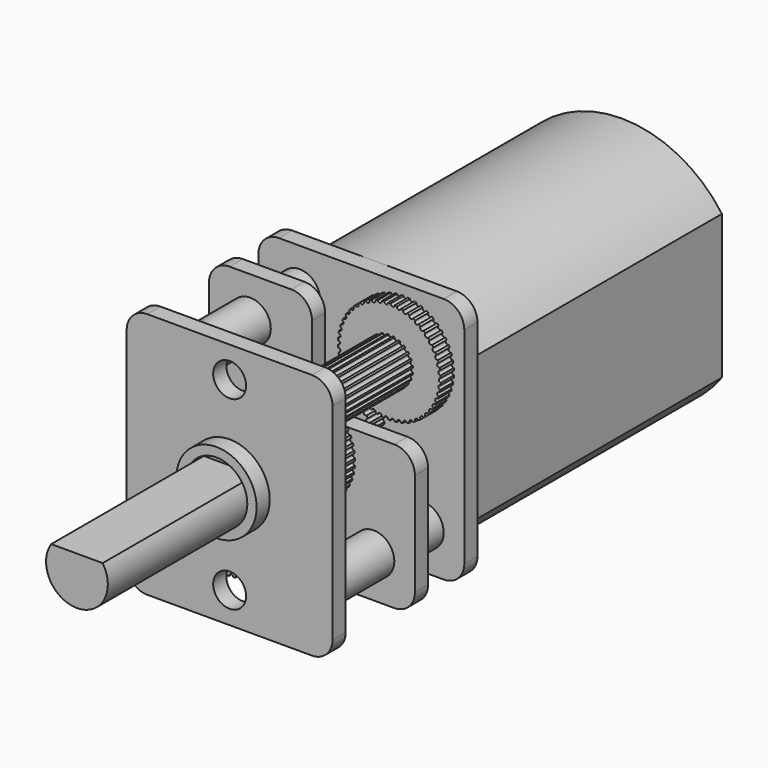
from build123d import *

# Parameters (mm, degrees)
CYLINDER030_R               = 0.5
CYLINDER030_DEPTH           = 10
CYLINDER029_R               = 0.1
CYLINDER029_DEPTH           = 3
ARRAY006_COUNT              = 50
CYLINDER028_R               = 2.5
CYLINDER028_DEPTH           = 0.8
CUT014_ROLL_ANGLE           = 90
CYLINDER033_R               = 0.5
CYLINDER033_DEPTH           = 10
CYLINDER032_R               = 0.1
CYLINDER032_DEPTH           = 2
ARRAY007_COUNT              = 26
CYLINDER031_R               = 1.15
CYLINDER031_DEPTH           = 1
CUT016_ROLL_ANGLE           = 90
CUT016_PITCH_ANGLE          = 78
CYLINDER027_R               = 0.5
CYLINDER027_DEPTH           = 8.8
CYLINDER027_ROLL_ANGLE      = 90
BOX003_W                    = 5
BOX003_H                    = 0.8
BOX003_DEPTH                = 5
FILLET003_R                 = 1
CYLINDER002_R               = 0.5
CYLINDER002_DEPTH           = 11
CYLINDER002_ROLL_ANGLE      = 90
BOX002_W                    = 10
BOX002_H                    = 0.8
BOX002_DEPTH                = 12
FILLET002_R                 = 1
BOX_W                       = 10
BOX_H                       = 0.8
BOX_DEPTH                   = 12
FILLET_R                    = 1
SKETCH_R                    = 0.8
POCKET_DEPTH                = 0.801
SKETCH001_R                 = 1.95
PAD_DEPTH                   = 0.8
SKETCH002_R                 = 1.5
POCKET003_DEPTH             = 5
CYLINDER005_R               = 1
CYLINDER005_DEPTH           = 8.8
CYLINDER005_ROLL_ANGLE      = 90
CYLINDER007_R               = 1
CYLINDER007_DEPTH           = 8.8
CYLINDER007_ROLL_ANGLE      = 90
BOX001_W                    = 10
BOX001_H                    = 0.8
BOX001_DEPTH                = 12
FILLET001_R                 = 1
FILLET004_R                 = 1
CYLINDER013_R               = 0.5
CYLINDER013_DEPTH           = 8.8
CYLINDER013_ROLL_ANGLE      = 90
CYLINDER012_R               = 0.1
CYLINDER012_DEPTH           = 10
ARRAY001_COUNT              = 25
CYLINDER011_R               = 0.5
CYLINDER011_DEPTH           = 10
CYLINDER010_R               = 1.15
CYLINDER010_DEPTH           = 5
CYLINDER009_R               = 0.1
CYLINDER009_DEPTH           = 10
ARRAY_COUNT                 = 50
CYLINDER008_R               = 2.5
CYLINDER008_DEPTH           = 0.8
SKETCH004_R                 = 0.5
POCKET004_DEPTH             = 5
FUSION001_ROLL_ANGLE        = 90
CYLINDER014_R               = 0.5
CYLINDER014_DEPTH           = 8.8
CYLINDER014_ROLL_ANGLE      = 90
CYLINDER017_R               = 0.5
CYLINDER017_DEPTH           = 10
CYLINDER016_R               = 0.1
CYLINDER016_DEPTH           = 2
CYLINDER016_PLACEMENT_ANGLE = 10
ARRAY002_COUNT              = 22
CYLINDER015_R               = 1.15
CYLINDER015_DEPTH           = 1
CUT006_ROLL_ANGLE           = 90
CUT006_PITCH_ANGLE          = 4
CYLINDER026_R               = 0.5
CYLINDER026_DEPTH           = 10
CYLINDER025_R               = 0.1
CYLINDER025_DEPTH           = 10
ARRAY005_COUNT              = 50
CYLINDER024_R               = 2.5
CYLINDER024_DEPTH           = 1.5
CUT012_ROLL_ANGLE           = 90
CYLINDER023_R               = 0.5
CYLINDER023_DEPTH           = 10
CYLINDER022_R               = 0.1
CYLINDER022_DEPTH           = 10
ARRAY004_COUNT              = 30
CYLINDER021_R               = 1.15
CYLINDER021_DEPTH           = 2
CUT010_ROLL_ANGLE           = 90
CYLINDER020_R               = 0.5
CYLINDER020_DEPTH           = 10
CYLINDER019_R               = 0.1
CYLINDER019_DEPTH           = 5
ARRAY003_COUNT              = 50
CYLINDER018_R               = 2.5
CYLINDER018_DEPTH           = 0.8
CUT008_ROLL_ANGLE           = 90
CUT008_PITCH_ANGLE          = 2
PAD001_DEPTH                = 15
SKETCH006_R                 = 2.5
PAD002_DEPTH                = 1.2
SKETCH007_W                 = 1.5
SKETCH007_H                 = 0.5
PAD003_DEPTH                = 1.5
POCKET005_DEPTH             = 1
POCKET006_DEPTH             = 1
CYLINDER_R                  = 1.5
CYLINDER_DEPTH              = 9.27
CYLINDER_ROLL_ANGLE         = 90
POCKET002_DEPTH             = 9.271


with BuildPart() as cilindro030:
    # Cylinder030 → Cylinder030 (new body)
    with BuildSketch(Plane.XY.offset(-2)):
        Circle(CYLINDER030_R)
    extrude(amount=CYLINDER030_DEPTH)


with BuildPart() as array006:
    # Cylinder029 → Cylinder029 (new body)
    with BuildSketch(Plane(origin=(2.5, 0, -1), x_dir=(1, 0, 0), z_dir=(0, 0, 1))):
        Circle(CYLINDER029_R)
    extrude(amount=CYLINDER029_DEPTH)

    # Array006: Array006 ×50 about axis
    array006_axis = Axis((0, 0, 0), (0, 0, 1))


with BuildPart() as array006_1:
    add(array006.part)
    for i in range(1, ARRAY006_COUNT):
        add(array006.part.rotate(array006_axis, i * 360 / ARRAY006_COUNT))


with BuildPart() as cut014:
    # Cylinder028 → Cylinder028 (new body)
    with BuildSketch(Plane.XY):
        Circle(CYLINDER028_R)
    extrude(amount=CYLINDER028_DEPTH)

    # Cut013: cut Array006
    add(array006_1.part, mode=Mode.SUBTRACT)

    # Cut014: cut Cilindro030
    add(cilindro030.part, mode=Mode.SUBTRACT)


with BuildPart() as cut014_1:
    # Cut014 roll: moved
    add(cut014.part.rotate(Axis((0, 0, 0), (1, 0, 0)), CUT014_ROLL_ANGLE))


with BuildPart() as cut014_2:
    # Cut014 placement: moved
    add(cut014_1.part.moved(Location((3, 3.2, 3))))


with BuildPart() as cilindro033:
    # Cylinder033 → Cylinder033 (new body)
    with BuildSketch(Plane.XY.offset(-4)):
        Circle(CYLINDER033_R)
    extrude(amount=CYLINDER033_DEPTH)


with BuildPart() as array007:
    # Cylinder032 → Cylinder032 (new body)
    with BuildSketch(Plane(origin=(1.15, 0, 0), x_dir=(1, 0, 0), z_dir=(0, 0, 1))):
        Circle(CYLINDER032_R)
    extrude(amount=CYLINDER032_DEPTH)

    # Array007: Array007 ×26 about axis
    array007_axis = Axis((0, 0, 0), (0, 0, 1))


with BuildPart() as array007_1:
    add(array007.part)
    for i in range(1, ARRAY007_COUNT):
        add(array007.part.rotate(array007_axis, i * 360 / ARRAY007_COUNT))


with BuildPart() as cut016:
    # Cylinder031 → Cylinder031 (new body)
    with BuildSketch(Plane.XY):
        Circle(CYLINDER031_R)
    extrude(amount=CYLINDER031_DEPTH)

    # Cut015: cut Array007
    add(array007_1.part, mode=Mode.SUBTRACT)

    # Cut016: cut Cilindro033
    add(cilindro033.part, mode=Mode.SUBTRACT)


with BuildPart() as cut016_1:
    # Cut016 roll: moved
    add(cut016.part.rotate(Axis((0, 0, 0), (1, 0, 0)), CUT016_ROLL_ANGLE))


with BuildPart() as cut016_2:
    # Cut016 pitch: moved
    add(cut016_1.part.rotate(Axis((0, 0, 0), (0, 1, 0)), CUT016_PITCH_ANGLE))


with BuildPart() as cut016_3:
    # Cut016 placement: moved
    add(cut016_2.part.moved(Location((3, 1.7, 3))))


with BuildPart() as fusion006:
    # Cylinder027 → Cylinder027 (new body)
    with BuildSketch(Plane.XY):
        Circle(CYLINDER027_R)
    extrude(amount=CYLINDER027_DEPTH)


with BuildPart() as fusion006_1:
    # Cylinder027 roll: moved
    add(fusion006.part.rotate(Axis((0, 0, 0), (1, 0, 0)), CYLINDER027_ROLL_ANGLE))


with BuildPart() as fusion006_2:
    # Cylinder027 placement: moved
    add(fusion006_1.part.moved(Location((3, 8.8, 3))))

    # Fusion006: union Cut014, Cut016
    add(cut014_2.part)
    add(cut016_3.part)


with BuildPart() as fillet003:
    # Box003 → Box003 (new body)
    with BuildSketch(Plane(origin=(5, 5, 7), x_dir=(1, 0, 0), z_dir=(0, 0, 1))):
        with Locations((2.5, 0.4)):
            Rectangle(BOX003_W, BOX003_H)
    extrude(amount=BOX003_DEPTH)

    # Fillet003
    fillet003_edges = [fillet003.edges().sort_by_distance(p)[0] for p in [
        (5, 5.4, 7),
        (10, 5.4, 12),
    ]]
    fillet(fillet003_edges, radius=FILLET003_R)


with BuildPart() as cilindro002:
    # Cylinder002 → Cylinder002 (new body)
    with BuildSketch(Plane.XY):
        Circle(CYLINDER002_R)
    extrude(amount=CYLINDER002_DEPTH)


with BuildPart() as cilindro002_1:
    # Cylinder002 roll: moved
    add(cilindro002.part.rotate(Axis((0, 0, 0), (1, 0, 0)), CYLINDER002_ROLL_ANGLE))


with BuildPart() as cilindro002_2:
    # Cylinder002 placement: moved
    add(cilindro002_1.part.moved(Location((7, 10, 9))))


with BuildPart() as fillet002:
    # Box002 → Box002 (new body)
    with BuildSketch(Plane.XY):
        with Locations((5, 0.4)):
            Rectangle(BOX002_W, BOX002_H)
    extrude(amount=BOX002_DEPTH)

    # Fillet002
    fillet002_edges = [fillet002.edges().sort_by_distance(p)[0] for p in [
        (0, 0.4, 12),
        (0, 0.4, 0),
        (10, 0.4, 12),
        (10, 0.4, 0),
    ]]
    fillet(fillet002_edges, radius=FILLET002_R)


with BuildPart() as fillet002_1:
    # Fillet002 placement: moved
    add(fillet002.part.moved(Location((0, 5, 0))))


with BuildPart() as pocket003:
    # Box → Box (new body)
    with BuildSketch(Plane.XY):
        with Locations((5, 0.4)):
            Rectangle(BOX_W, BOX_H)
    extrude(amount=BOX_DEPTH)

    # Fillet
    fillet_edges = [pocket003.edges().sort_by_distance(p)[0] for p in [
        (0, 0.4, 12),
        (0, 0.4, 0),
        (10, 0.4, 12),
        (10, 0.4, 0),
    ]]
    fillet(fillet_edges, radius=FILLET_R)

    # Sketch → Pocket (cut, through all)
    with BuildSketch(Plane.XZ):
        with Locations((5, 10.5)):
            Circle(SKETCH_R)
        with Locations((5, 1.5)):
            Circle(SKETCH_R)
    extrude(amount=-POCKET_DEPTH, mode=Mode.SUBTRACT)

    # Sketch001 → Pad (new body)
    with BuildSketch(Plane.XZ):
        with Locations((5, 6)):
            Circle(SKETCH001_R)
    extrude(amount=PAD_DEPTH)

    # Sketch002 → Pocket003 (cut)
    with BuildSketch(Plane.XZ.offset(0.8)):
        with Locations((5, 6)):
            Circle(SKETCH002_R)
    extrude(amount=-POCKET003_DEPTH, mode=Mode.SUBTRACT)


with BuildPart() as cilindro005:
    # Cylinder005 → Cylinder005 (new body)
    with BuildSketch(Plane.XY):
        Circle(CYLINDER005_R)
    extrude(amount=CYLINDER005_DEPTH)


with BuildPart() as cilindro005_1:
    # Cylinder005 roll: moved
    add(cilindro005.part.rotate(Axis((0, 0, 0), (1, 0, 0)), CYLINDER005_ROLL_ANGLE))


with BuildPart() as cilindro005_2:
    # Cylinder005 placement: moved
    add(cilindro005_1.part.moved(Location((2, 8.8, 10))))


with BuildPart() as cilindro007:
    # Cylinder007 → Cylinder007 (new body)
    with BuildSketch(Plane.XY):
        Circle(CYLINDER007_R)
    extrude(amount=CYLINDER007_DEPTH)


with BuildPart() as cilindro007_1:
    # Cylinder007 roll: moved
    add(cilindro007.part.rotate(Axis((0, 0, 0), (1, 0, 0)), CYLINDER007_ROLL_ANGLE))


with BuildPart() as cilindro007_2:
    # Cylinder007 placement: moved
    add(cilindro007_1.part.moved(Location((8, 8.8, 2))))


with BuildPart() as fillet004:
    # Box001 → Box001 (new body)
    with BuildSketch(Plane.XY):
        with Locations((5, 0.4)):
            Rectangle(BOX001_W, BOX001_H)
    extrude(amount=BOX001_DEPTH)

    # Fillet001
    fillet001_edges = [fillet004.edges().sort_by_distance(p)[0] for p in [
        (0, 0.4, 12),
        (0, 0.4, 0),
        (10, 0.4, 12),
        (10, 0.4, 0),
    ]]
    fillet(fillet001_edges, radius=FILLET001_R)


with BuildPart() as fillet004_1:
    # Fillet001 placement: moved
    add(fillet004.part.moved(Location((0, 8, 0))))

    # Fusion: union Fillet002, Pocket003, Cilindro005, Cilindro007
    add(fillet002_1.part)
    add(pocket003.part)
    add(cilindro005_2.part)
    add(cilindro007_2.part)

    # Cut003: cut Cilindro002
    add(cilindro002_2.part, mode=Mode.SUBTRACT)

    # Cut004: cut Fillet003
    add(fillet003.part, mode=Mode.SUBTRACT)

    # Fillet004
    fillet004_edges = [fillet004_1.edges().sort_by_distance(p)[0] for p in [
        (10, 5.4, 7),
        (5, 5.4, 12),
    ]]
    fillet(fillet004_edges, radius=FILLET004_R)


with BuildPart() as cilindro013:
    # Cylinder013 → Cylinder013 (new body)
    with BuildSketch(Plane.XY):
        Circle(CYLINDER013_R)
    extrude(amount=CYLINDER013_DEPTH)


with BuildPart() as cilindro013_1:
    # Cylinder013 roll: moved
    add(cilindro013.part.rotate(Axis((0, 0, 0), (1, 0, 0)), CYLINDER013_ROLL_ANGLE))


with BuildPart() as cilindro013_2:
    # Cylinder013 placement: moved
    add(cilindro013_1.part.moved(Location((7, 8.8, 9))))


with BuildPart() as array001:
    # Cylinder012 → Cylinder012 (new body)
    with BuildSketch(Plane(origin=(1.15, 0, 0), x_dir=(1, 0, 0), z_dir=(0, 0, 1))):
        Circle(CYLINDER012_R)
    extrude(amount=CYLINDER012_DEPTH)

    # Array001: Array001 ×25 about axis
    array001_axis = Axis((0, 0, 0), (0, 0, 1))


with BuildPart() as array001_1:
    add(array001.part)
    for i in range(1, ARRAY001_COUNT):
        add(array001.part.rotate(array001_axis, i * 360 / ARRAY001_COUNT))


with BuildPart() as cilindro011:
    # Cylinder011 → Cylinder011 (new body)
    with BuildSketch(Plane.XY.offset(-3)):
        Circle(CYLINDER011_R)
    extrude(amount=CYLINDER011_DEPTH)


with BuildPart() as cut002:
    # Cylinder010 → Cylinder010 (new body)
    with BuildSketch(Plane.XY):
        Circle(CYLINDER010_R)
    extrude(amount=CYLINDER010_DEPTH)

    # Cut001: cut Cilindro011
    add(cilindro011.part, mode=Mode.SUBTRACT)

    # Cut002: cut Array001
    add(array001_1.part, mode=Mode.SUBTRACT)


with BuildPart() as array:
    # Cylinder009 → Cylinder009 (new body)
    with BuildSketch(Plane(origin=(2.5, 0, -5), x_dir=(1, 0, 0), z_dir=(0, 0, 1))):
        Circle(CYLINDER009_R)
    extrude(amount=CYLINDER009_DEPTH)

    # Array: Array ×50 about axis
    array_axis = Axis((0, 0, 0), (0, 0, 1))


with BuildPart() as array_1:
    add(array.part)
    for i in range(1, ARRAY_COUNT):
        add(array.part.rotate(array_axis, i * 360 / ARRAY_COUNT))


with BuildPart() as engranaje01:
    # Cylinder008 → Cylinder008 (new body)
    with BuildSketch(Plane.XY):
        Circle(CYLINDER008_R)
    extrude(amount=CYLINDER008_DEPTH)

    # Cut: cut Array
    add(array_1.part, mode=Mode.SUBTRACT)

    # Sketch004 → Pocket004 (cut)
    with BuildSketch(Plane.XY.offset(0.8)):
        Circle(SKETCH004_R)
    extrude(amount=-POCKET004_DEPTH, mode=Mode.SUBTRACT)

    # Fusion001: union Cut002
    add(cut002.part)


with BuildPart() as engranaje01_1:
    # Fusion001 roll: moved
    add(engranaje01.part.rotate(Axis((0, 0, 0), (1, 0, 0)), FUSION001_ROLL_ANGLE))


with BuildPart() as engranaje01_2:
    # Fusion001 placement: moved
    add(engranaje01_1.part.moved(Location((7, 8, 9))))

    # Fusion002: union Cilindro013
    add(cilindro013_2.part)


with BuildPart() as cilindro014:
    # Cylinder014 → Cylinder014 (new body)
    with BuildSketch(Plane.XY):
        Circle(CYLINDER014_R)
    extrude(amount=CYLINDER014_DEPTH)


with BuildPart() as cilindro014_1:
    # Cylinder014 roll: moved
    add(cilindro014.part.rotate(Axis((0, 0, 0), (1, 0, 0)), CYLINDER014_ROLL_ANGLE))


with BuildPart() as cilindro014_2:
    # Cylinder014 placement: moved
    add(cilindro014_1.part.moved(Location((5, 8.8, 6))))


with BuildPart() as cilindro017:
    # Cylinder017 → Cylinder017 (new body)
    with BuildSketch(Plane.XY.offset(-3)):
        Circle(CYLINDER017_R)
    extrude(amount=CYLINDER017_DEPTH)


with BuildPart() as array002:
    # Cylinder016 → Cylinder016 (new body)
    with BuildSketch(Plane.XY):
        Circle(CYLINDER016_R)
    extrude(amount=CYLINDER016_DEPTH)


with BuildPart() as array002_1:
    # Cylinder016 placement: moved
    add(array002.part.moved(Location((1.15, 0, 0))).rotate(Axis((1.15, 0, 0), (0, 0, 1)), CYLINDER016_PLACEMENT_ANGLE))

    # Array002: Array002 ×22 about axis
    array002_axis = Axis((0, 0, 0), (0, 0, 1))


with BuildPart() as array002_2:
    add(array002_1.part)
    for i in range(1, ARRAY002_COUNT):
        add(array002_1.part.rotate(array002_axis, i * 360 / ARRAY002_COUNT))


with BuildPart() as engranaje02:
    # Cylinder015 → Cylinder015 (new body)
    with BuildSketch(Plane.XY):
        Circle(CYLINDER015_R)
    extrude(amount=CYLINDER015_DEPTH)

    # Cut005: cut Array002
    add(array002_2.part, mode=Mode.SUBTRACT)

    # Cut006: cut Cilindro017
    add(cilindro017.part, mode=Mode.SUBTRACT)


with BuildPart() as engranaje02_1:
    # Cut006 roll: moved
    add(engranaje02.part.rotate(Axis((0, 0, 0), (1, 0, 0)), CUT006_ROLL_ANGLE))


with BuildPart() as engranaje02_2:
    # Cut006 pitch: moved
    add(engranaje02_1.part.rotate(Axis((0, 0, 0), (0, 1, 0)), CUT006_PITCH_ANGLE))


with BuildPart() as engranaje02_3:
    # Cut006 placement: moved
    add(engranaje02_2.part.moved(Location((5, 8, 6))))

    # Fusion003: union Cilindro014
    add(cilindro014_2.part)


with BuildPart() as cilindro026:
    # Cylinder026 → Cylinder026 (new body)
    with BuildSketch(Plane.XY.offset(-3)):
        Circle(CYLINDER026_R)
    extrude(amount=CYLINDER026_DEPTH)


with BuildPart() as array005:
    # Cylinder025 → Cylinder025 (new body)
    with BuildSketch(Plane(origin=(2.5, 0, -2), x_dir=(1, 0, 0), z_dir=(0, 0, 1))):
        Circle(CYLINDER025_R)
    extrude(amount=CYLINDER025_DEPTH)

    # Array005: Array005 ×50 about axis
    array005_axis = Axis((0, 0, 0), (0, 0, 1))


with BuildPart() as array005_1:
    add(array005.part)
    for i in range(1, ARRAY005_COUNT):
        add(array005.part.rotate(array005_axis, i * 360 / ARRAY005_COUNT))


with BuildPart() as cut012:
    # Cylinder024 → Cylinder024 (new body)
    with BuildSketch(Plane.XY):
        Circle(CYLINDER024_R)
    extrude(amount=CYLINDER024_DEPTH)

    # Cut011: cut Array005
    add(array005_1.part, mode=Mode.SUBTRACT)

    # Cut012: cut Cilindro026
    add(cilindro026.part, mode=Mode.SUBTRACT)


with BuildPart() as cut012_1:
    # Cut012 roll: moved
    add(cut012.part.rotate(Axis((0, 0, 0), (1, 0, 0)), CUT012_ROLL_ANGLE))


with BuildPart() as cut012_2:
    # Cut012 placement: moved
    add(cut012_1.part.moved(Location((5, 2, 6))))


with BuildPart() as cilindro023:
    # Cylinder023 → Cylinder023 (new body)
    with BuildSketch(Plane.XY.offset(-2)):
        Circle(CYLINDER023_R)
    extrude(amount=CYLINDER023_DEPTH)


with BuildPart() as array004:
    # Cylinder022 → Cylinder022 (new body)
    with BuildSketch(Plane(origin=(1.15, 0, 0), x_dir=(1, 0, 0), z_dir=(0, 0, 1))):
        Circle(CYLINDER022_R)
    extrude(amount=CYLINDER022_DEPTH)

    # Array004: Array004 ×30 about axis
    array004_axis = Axis((0, 0, 0), (0, 0, 1))


with BuildPart() as array004_1:
    add(array004.part)
    for i in range(1, ARRAY004_COUNT):
        add(array004.part.rotate(array004_axis, i * 360 / ARRAY004_COUNT))


with BuildPart() as cut010:
    # Cylinder021 → Cylinder021 (new body)
    with BuildSketch(Plane.XY):
        Circle(CYLINDER021_R)
    extrude(amount=CYLINDER021_DEPTH)

    # Cut009: cut Array004
    add(array004_1.part, mode=Mode.SUBTRACT)

    # Cut010: cut Cilindro023
    add(cilindro023.part, mode=Mode.SUBTRACT)


with BuildPart() as cut010_1:
    # Cut010 roll: moved
    add(cut010.part.rotate(Axis((0, 0, 0), (1, 0, 0)), CUT010_ROLL_ANGLE))


with BuildPart() as cut010_2:
    # Cut010 placement: moved
    add(cut010_1.part.moved(Location((5, 4, 6))))


with BuildPart() as cilindro020:
    # Cylinder020 → Cylinder020 (new body)
    with BuildSketch(Plane.XY.offset(-3)):
        Circle(CYLINDER020_R)
    extrude(amount=CYLINDER020_DEPTH)


with BuildPart() as array003:
    # Cylinder019 → Cylinder019 (new body)
    with BuildSketch(Plane(origin=(2.5, 0, 0), x_dir=(1, 0, 0), z_dir=(0, 0, 1))):
        Circle(CYLINDER019_R)
    extrude(amount=CYLINDER019_DEPTH)

    # Array003: Array003 ×50 about axis
    array003_axis = Axis((0, 0, 0), (0, 0, 1))


with BuildPart() as array003_1:
    add(array003.part)
    for i in range(1, ARRAY003_COUNT):
        add(array003.part.rotate(array003_axis, i * 360 / ARRAY003_COUNT))


with BuildPart() as engranaje03:
    # Cylinder018 → Cylinder018 (new body)
    with BuildSketch(Plane.XY):
        Circle(CYLINDER018_R)
    extrude(amount=CYLINDER018_DEPTH)

    # Cut007: cut Array003
    add(array003_1.part, mode=Mode.SUBTRACT)

    # Cut008: cut Cilindro020
    add(cilindro020.part, mode=Mode.SUBTRACT)


with BuildPart() as engranaje03_1:
    # Cut008 roll: moved
    add(engranaje03.part.rotate(Axis((0, 0, 0), (1, 0, 0)), CUT008_ROLL_ANGLE))


with BuildPart() as engranaje03_2:
    # Cut008 pitch: moved
    add(engranaje03_1.part.rotate(Axis((0, 0, 0), (0, 1, 0)), CUT008_PITCH_ANGLE))


with BuildPart() as engranaje03_3:
    # Cut008 placement: moved
    add(engranaje03_2.part.moved(Location((5, 4.5, 6))))

    # Fusion004: union Cut010
    add(cut010_2.part)

    # Fusion005: union Cut012
    add(cut012_2.part)


with BuildPart() as pocket006:
    # Sketch005 → Pad001 (new body)
    with BuildSketch(Plane(origin=(5, 23.8, 6), x_dir=(1, 0, 0), z_dir=(0, -1, 0))):
        with BuildLine():
            ThreePointArc((4.873397, 3.5), (0, 6), (-4.873397, 3.5))
            Line((-4.873397, -3.5), (-4.873397, 3.5))
            ThreePointArc((-4.873397, -3.5), (0, -6), (4.873397, -3.5))
            Line((4.873397, 3.5), (4.873397, -3.5))
        make_face()
    extrude(amount=PAD001_DEPTH)

    # Sketch006 → Pad002 (new body)
    with BuildSketch(Plane(origin=(5, 23.8, 6), x_dir=(1, 0, 0), z_dir=(0, 1, 0))):
        Circle(SKETCH006_R)
    extrude(amount=PAD002_DEPTH)

    # Sketch007 → Pad003 (new body)
    with BuildSketch(Plane(origin=(5, 23.8, 6), x_dir=(1, 0, 0), z_dir=(0, 1, 0))):
        with Locations((0, -3.5)):
            Rectangle(SKETCH007_W, SKETCH007_H)
        with Locations((0, 3.5)):
            Rectangle(SKETCH007_W, SKETCH007_H)
    extrude(amount=PAD003_DEPTH)

    # Sketch008 → Pocket005 (cut)
    with BuildSketch(Plane(origin=(5, 23.8, 2.25), x_dir=(1, 0, 0), z_dir=(0, 0, -1))):
        with BuildLine():
            ThreePointArc((0.3, -0.399994), (3e-06, -0.099988), (-0.3, -0.399988))
            Line((-0.3, -0.399988), (-0.3, -1))
            ThreePointArc((-0.3, -1), (3e-06, -1.3), (0.3, -0.999994))
            Line((0.3, -0.399994), (0.3, -0.999994))
        make_face()
    extrude(amount=-POCKET005_DEPTH, mode=Mode.SUBTRACT)

    # Sketch009 → Pocket006 (cut)
    with BuildSketch(Plane(origin=(5, 23.8, 9.75), x_dir=(-1, 0, 0), z_dir=(0, 0, 1))):
        with BuildLine():
            ThreePointArc((0.3, -0.399997), (-2e-06, -0.099997), (-0.3, -0.4))
            Line((-0.3, -0.4), (-0.3, -1))
            ThreePointArc((-0.3, -1), (2e-06, -1.299997), (0.3, -0.999997))
            Line((0.3, -0.399997), (0.3, -0.999997))
        make_face()
    extrude(amount=-POCKET006_DEPTH, mode=Mode.SUBTRACT)


with BuildPart() as obj1:
    # Cylinder → Cylinder (new body)
    with BuildSketch(Plane.XY):
        Circle(CYLINDER_R)
    extrude(amount=CYLINDER_DEPTH)


with BuildPart() as obj1_1:
    # Cylinder roll: moved
    add(obj1.part.rotate(Axis((0, 0, 0), (1, 0, 0)), CYLINDER_ROLL_ANGLE))


with BuildPart() as obj1_2:
    # Cylinder placement: moved
    add(obj1_1.part.moved(Location((5, 0, 6))))

    # Sketch003 → Pocket002 (cut, through all)
    with BuildSketch(Plane(origin=(5, -9.27, 6), x_dir=(1, 0, 0), z_dir=(0, -1, 0))):
        with BuildLine():
            ThreePointArc((1.25, 0.829156), (0, 1.5), (-1.25, 0.829156))
            Line((1.25, 0.829156), (-1.25, 0.829156))
        make_face()
    extrude(amount=-POCKET002_DEPTH, mode=Mode.SUBTRACT)

    # Fusion007: union Fillet004, engranaje01, engranaje02, engranaje03, Pocket006
    add(fillet004_1.part)
    add(engranaje01_2.part)
    add(engranaje02_3.part)
    add(engranaje03_3.part)
    add(pocket006.part)


solid = Compound([fusion006_2.part, obj1_2.part])
